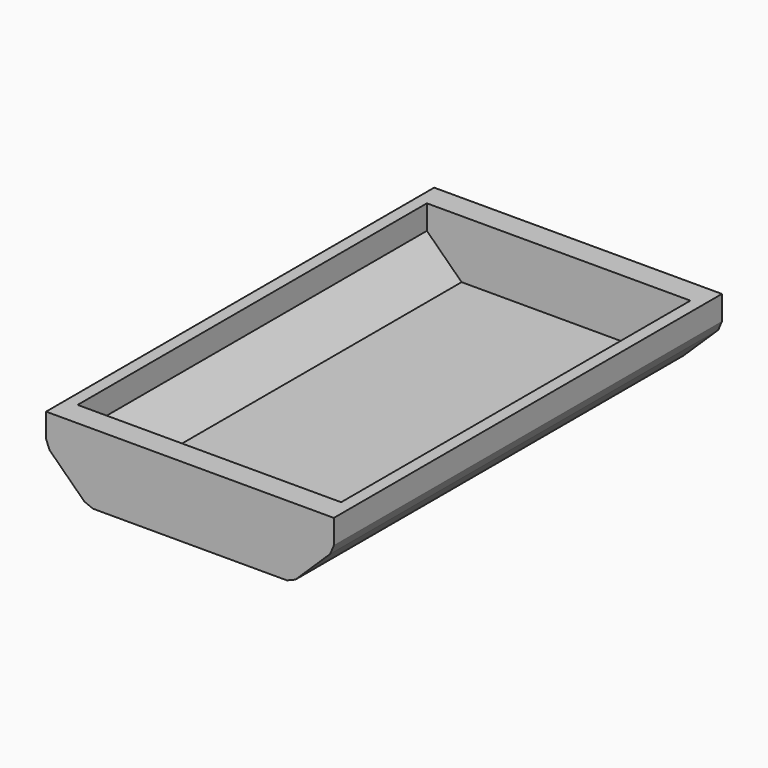
from build123d import *

# Parameters (mm, degrees)
F0_W     = 12.7
F0_H     = 25.4
F0_W_2   = 203.2
F0_H_2   = 12.7
F1_DEPTH = 508
F3_DEPTH = 25.4
F5_DEPTH = 25.4


with BuildPart() as f1:
    # F0 (on Front) → F1 (new body)
    with BuildSketch(Plane.XZ):
        with Locations((102.376167, 4.548111)):
            Rectangle(F0_W, F0_H)
        Polygon((104.891275, -17.245835), (96.026167, -8.151889), (59.65038, -43.612319), (68.515488, -52.706266), align=None)
        Polygon((108.726167, -8.151889), (96.026167, -8.151889), (104.891275, -17.245835), align=None)
        with Locations((-41.94962, -49.962319)):
            Rectangle(F0_W_2, F0_H_2)
        Polygon((68.515488, -52.706266), (59.65038, -43.612319), (59.65038, -56.312319), align=None)
        Polygon((-152.414727, -52.706266), (-143.54962, -43.612319), (-179.925407, -8.151889), (-188.790514, -17.245835), align=None)
        Polygon((-143.54962, -56.312319), (-143.54962, -43.612319), (-152.414727, -52.706266), align=None)
        with Locations((-186.275407, 4.548111)):
            Rectangle(F0_W, F0_H)
        Polygon((-188.790514, -17.245835), (-179.925407, -8.151889), (-192.625407, -8.151889), align=None)
    extrude(amount=F1_DEPTH)

    # F2 (on Front) → F3 (join)
    with BuildSketch(Plane.XZ):
        Polygon((96.026167, 17.248111), (-179.925407, 17.248111), (-179.925407, -8.151889), (-143.54962, -43.612319), (59.65038, -43.612319), (96.026167, -8.151889), align=None)
    extrude(amount=F3_DEPTH)

    # F4 (on face) → F5 (join)
    with BuildSketch(Plane.XZ.offset(508)):
        Polygon((96.026167, 17.248111), (-179.925407, 17.248111), (-179.925407, -8.151889), (-143.54962, -43.612319), (59.65038, -43.612319), (96.026167, -8.151889), align=None)
    extrude(amount=-F5_DEPTH)


solid = f1.part
